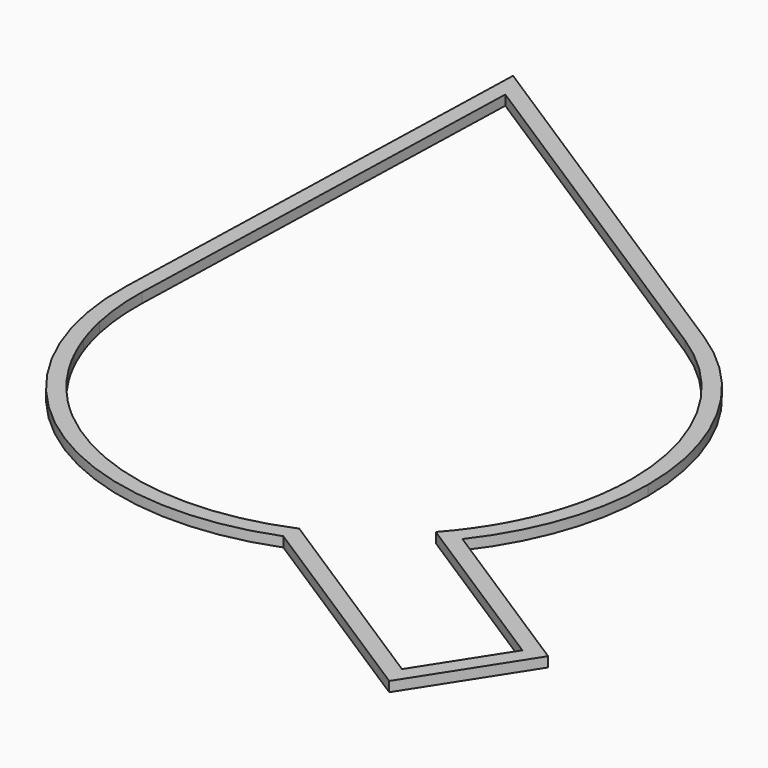
from build123d import *

# Parameters (mm, degrees)
F1_DEPTH = 1.27


with BuildPart() as f1:
    # F0 (on Top) → F1 (new body)
    with BuildSketch(Plane.XY):
        with BuildLine():
            Line((20.811577, 16.726013), (-29.472172, 48.990816))
            Line((-29.472172, 48.990816), (-31.19997, -10.729261))
            ThreePointArc((-31.19997, -10.729261), (-16.887287, -39.323592), (14.856433, -43.17391))
            Line((14.856433, -43.17391), (42.692334, -61.028975))
            Line((42.692334, -61.028975), (51.743443, -46.91837))
            Line((51.743443, -46.91837), (29.216448, -32.468651))
            ThreePointArc((29.216448, -32.468651), (34.516804, -22.683067), (36.349902, -11.70622))
            ThreePointArc((36.349902, -11.70622), (32.211884, 4.494331), (20.811577, 16.726013))
        make_face()
        with BuildLine():
            Line((-29.168819, -10.788025), (-27.544949, 45.339865))
            Line((-27.544949, 45.339865), (19.714212, 15.015803))
            ThreePointArc((19.714212, 15.015803), (30.428787, 3.519862), (34.317901, -11.70622))
            ThreePointArc((34.317901, -11.70622), (34.137361, -15.0873), (33.597794, -18.429929))
            ThreePointArc((33.597794, -18.429929), (33.088689, -20.455162), (32.447555, -22.442549))
            ThreePointArc((32.447555, -22.442549), (31.800913, -24.095469), (31.062915, -25.709672))
            ThreePointArc((31.062915, -25.709672), (30.36012, -27.05728), (29.593639, -28.369712))
            ThreePointArc((29.593639, -28.369712), (27.988575, -30.728623), (26.178225, -32.933916))
            Line((26.178225, -32.933916), (48.935962, -47.531642))
            Line((48.935962, -47.531642), (42.079062, -58.221494))
            Line((42.079062, -58.221494), (15.064719, -40.893409))
            ThreePointArc((15.064719, -40.893409), (-2.08765, -43.11304), (-17.85854, -36.013071))
            ThreePointArc((-17.85854, -36.013071), (-19.098952, -34.914192), (-20.28034, -33.752089))
            ThreePointArc((-20.28034, -33.752089), (-22.513884, -31.173283), (-24.457837, -28.369712))
            ThreePointArc((-24.457837, -28.369712), (-25.224318, -27.05728), (-25.927113, -25.709672))
            ThreePointArc((-25.927113, -25.709672), (-26.665111, -24.095469), (-27.311753, -22.442549))
            ThreePointArc((-27.311753, -22.442549), (-27.955817, -20.444934), (-28.466491, -18.409131))
            ThreePointArc((-28.466491, -18.409131), (-29.04813, -14.619818), (-29.168819, -10.788025))
        make_face(mode=Mode.SUBTRACT)
    extrude(amount=F1_DEPTH)


solid = f1.part
